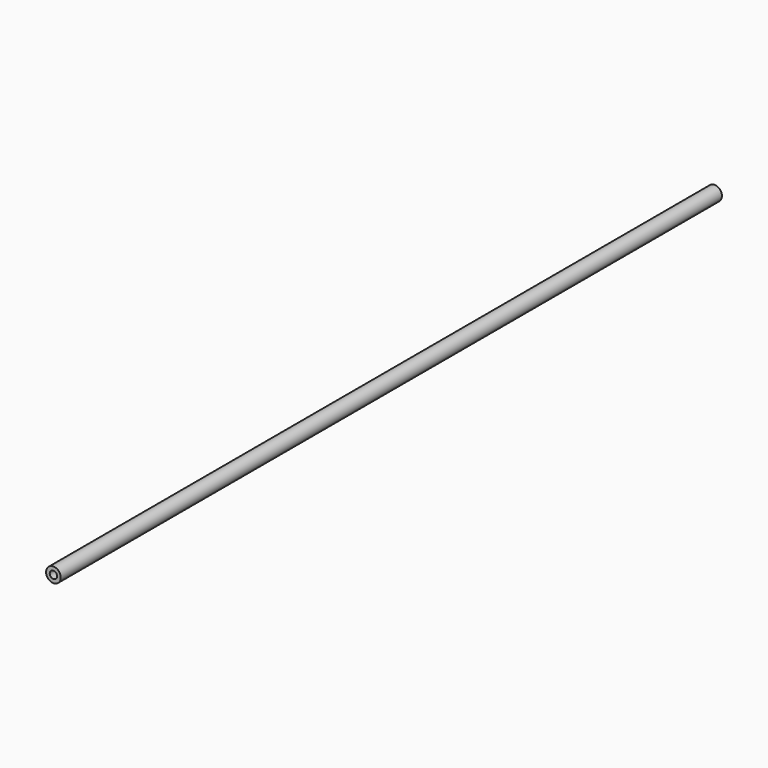
from build123d import *

# Parameters (mm, degrees)
F0_R     = 8
F1_DEPTH = 450
F2_R     = 4
F3_DEPTH = 60
F4_R     = 4
F5_DEPTH = 60


with BuildPart() as f1:
    # F0 (on Front) → F1 (new body, symmetric)
    with BuildSketch(Plane.XZ):
        Circle(F0_R)
    extrude(amount=F1_DEPTH, both=True)

    # F2 (on face) → F3 (cut)
    with BuildSketch(Plane.XZ.offset(450)):
        Circle(F2_R)
    extrude(amount=-F3_DEPTH, mode=Mode.SUBTRACT)

    # F4 (on face) → F5 (cut)
    with BuildSketch(Plane(origin=(0, 450, 0), x_dir=(-1, 0, 0), z_dir=(0, 1, 0))):
        Circle(F4_R)
    extrude(amount=-F5_DEPTH, mode=Mode.SUBTRACT)


solid = f1.part
